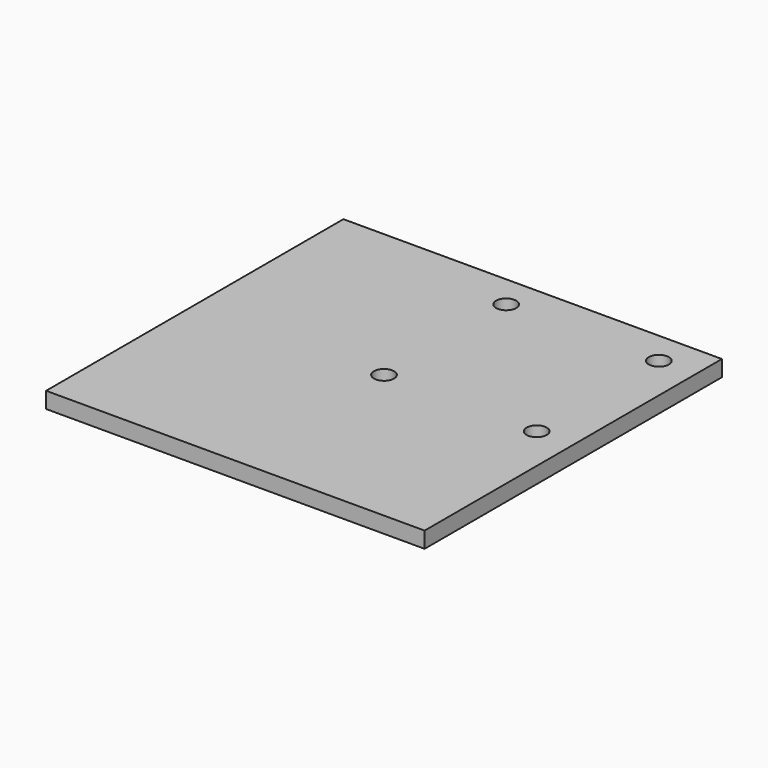
from build123d import *

# Parameters (mm, degrees)
F0_W     = 37.681248
F0_H     = 36.994756
F1_DEPTH = 1.6
F2_R     = 1
F3_DEPTH = 25


with BuildPart() as f1:
    # F0 (on Top) → F1 (new body)
    with BuildSketch(Plane.XY):
        Rectangle(F0_W, F0_H)
    extrude(amount=F1_DEPTH)

    # F2 (on face) → F3 (cut)
    with BuildSketch(Plane.XY.offset(1.6)):
        Circle(F2_R)
        with Locations((0, 15.2)):
            Circle(F2_R)
        with Locations((15.2, 0)):
            Circle(F2_R)
        with Locations((15.2, 15.2)):
            Circle(F2_R)
    extrude(amount=-F3_DEPTH, mode=Mode.SUBTRACT)


solid = f1.part
